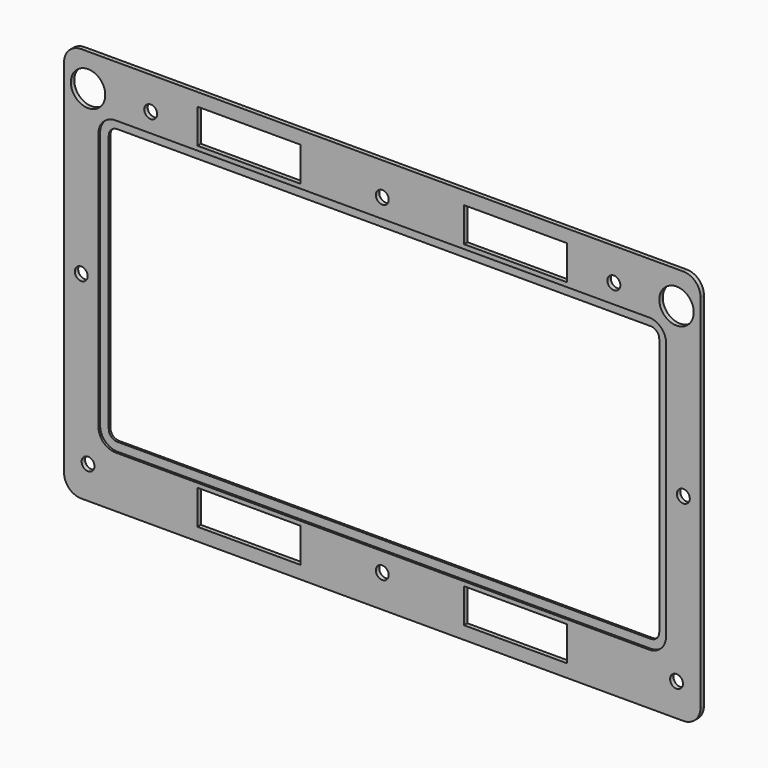
from build123d import *

# Parameters (mm, degrees)
F0_R     = 2.38125
F0_W     = 38.1
F0_H     = 12.7
F0_R_2   = 2.3876
F0_R_3   = 6.35
F1_DEPTH = 0.79375
F2_DEPTH = 1.5875


with BuildPart() as f1:
    # F0 (on Front) → F1 (new body)
    with BuildSketch(Plane.XZ):
        with BuildLine():
            Line((111.125, 73.025), (-111.125, 73.025))
            ThreePointArc((-111.125, 73.025), (-115.615128, 71.165128), (-117.475, 66.675))
            Line((-117.475, 66.675), (-117.475, -66.675))
            ThreePointArc((-117.475, -66.675), (-115.615128, -71.165128), (-111.125, -73.025))
            Line((-111.125, -73.025), (111.125, -73.025))
            ThreePointArc((111.125, -73.025), (115.615128, -71.165128), (117.475, -66.675))
            Line((117.475, -66.675), (117.475, 66.675))
            ThreePointArc((117.475, 66.675), (115.615128, 71.165128), (111.125, 73.025))
        make_face()
        with Locations((-108.607564, -60.982564)):
            Circle(F0_R, mode=Mode.SUBTRACT)
        with Locations((-49.2125, -61.9125)):
            Rectangle(F0_W, F0_H, mode=Mode.SUBTRACT)
        with Locations((0, -60.982564)):
            Circle(F0_R_2, mode=Mode.SUBTRACT)
        with Locations((49.2125, -61.9125)):
            Rectangle(F0_W, F0_H, mode=Mode.SUBTRACT)
        with Locations((108.607564, -60.982564)):
            Circle(F0_R, mode=Mode.SUBTRACT)
        with Locations((-111.125, 0)):
            Circle(F0_R, mode=Mode.SUBTRACT)
        with Locations((-108.607564, 60.982564)):
            Circle(F0_R_3, mode=Mode.SUBTRACT)
        with Locations((-85.477502, 60.982564)):
            Circle(F0_R_2, mode=Mode.SUBTRACT)
        with Locations((-49.2125, 61.9125)):
            Rectangle(F0_W, F0_H, mode=Mode.SUBTRACT)
        with BuildLine():
            ThreePointArc((-104.775, 47.625), (-102.915128, 52.115128), (-98.425, 53.975))
            Line((-98.425, 53.975), (98.425, 53.975))
            ThreePointArc((98.425, 53.975), (102.915128, 52.115128), (104.775, 47.625))
            Line((104.775, 47.625), (104.775, -47.625))
            ThreePointArc((104.775, -47.625), (102.915128, -52.115128), (98.425, -53.975))
            Line((98.425, -53.975), (-98.425, -53.975))
            ThreePointArc((-98.425, -53.975), (-102.915128, -52.115128), (-104.775, -47.625))
            Line((-104.775, -47.625), (-104.775, 47.625))
        make_face(mode=Mode.SUBTRACT)
        with Locations((111.125, 0)):
            Circle(F0_R, mode=Mode.SUBTRACT)
        with Locations((0.003981, 60.982564)):
            Circle(F0_R, mode=Mode.SUBTRACT)
        with Locations((49.2125, 61.9125)):
            Rectangle(F0_W, F0_H, mode=Mode.SUBTRACT)
        with Locations((85.477502, 60.982564)):
            Circle(F0_R_2, mode=Mode.SUBTRACT)
        with Locations((108.607564, 60.982564)):
            Circle(F0_R_3, mode=Mode.SUBTRACT)
        with BuildLine():
            Line((98.425, 53.975), (-98.425, 53.975))
            ThreePointArc((-98.425, 53.975), (-102.915128, 52.115128), (-104.775, 47.625))
            Line((-104.775, 47.625), (-104.775, -47.625))
            ThreePointArc((-104.775, -47.625), (-102.915128, -52.115128), (-98.425, -53.975))
            Line((-98.425, -53.975), (98.425, -53.975))
            ThreePointArc((98.425, -53.975), (102.915128, -52.115128), (104.775, -47.625))
            Line((104.775, -47.625), (104.775, 47.625))
            ThreePointArc((104.775, 47.625), (102.915128, 52.115128), (98.425, 53.975))
        make_face()
        with BuildLine():
            ThreePointArc((-101.6, 47.625), (-100.670064, 49.870064), (-98.425, 50.8))
            Line((-98.425, 50.8), (98.425, 50.8))
            ThreePointArc((98.425, 50.8), (100.670064, 49.870064), (101.6, 47.625))
            Line((101.6, 47.625), (101.6, -47.625))
            ThreePointArc((101.6, -47.625), (100.670064, -49.870064), (98.425, -50.8))
            Line((98.425, -50.8), (-98.425, -50.8))
            ThreePointArc((-98.425, -50.8), (-100.670064, -49.870064), (-101.6, -47.625))
            Line((-101.6, -47.625), (-101.6, 47.625))
        make_face(mode=Mode.SUBTRACT)
    extrude(amount=F1_DEPTH)

    # F0 (on Front) → F2 (join)
    with BuildSketch(Plane.XZ):
        with BuildLine():
            Line((111.125, 73.025), (-111.125, 73.025))
            ThreePointArc((-111.125, 73.025), (-115.615128, 71.165128), (-117.475, 66.675))
            Line((-117.475, 66.675), (-117.475, -66.675))
            ThreePointArc((-117.475, -66.675), (-115.615128, -71.165128), (-111.125, -73.025))
            Line((-111.125, -73.025), (111.125, -73.025))
            ThreePointArc((111.125, -73.025), (115.615128, -71.165128), (117.475, -66.675))
            Line((117.475, -66.675), (117.475, 66.675))
            ThreePointArc((117.475, 66.675), (115.615128, 71.165128), (111.125, 73.025))
        make_face()
        with Locations((-108.607564, -60.982564)):
            Circle(F0_R, mode=Mode.SUBTRACT)
        with Locations((-49.2125, -61.9125)):
            Rectangle(F0_W, F0_H, mode=Mode.SUBTRACT)
        with Locations((0, -60.982564)):
            Circle(F0_R_2, mode=Mode.SUBTRACT)
        with Locations((49.2125, -61.9125)):
            Rectangle(F0_W, F0_H, mode=Mode.SUBTRACT)
        with Locations((108.607564, -60.982564)):
            Circle(F0_R, mode=Mode.SUBTRACT)
        with Locations((-111.125, 0)):
            Circle(F0_R, mode=Mode.SUBTRACT)
        with Locations((-108.607564, 60.982564)):
            Circle(F0_R_3, mode=Mode.SUBTRACT)
        with Locations((-85.477502, 60.982564)):
            Circle(F0_R_2, mode=Mode.SUBTRACT)
        with Locations((-49.2125, 61.9125)):
            Rectangle(F0_W, F0_H, mode=Mode.SUBTRACT)
        with BuildLine():
            ThreePointArc((-104.775, 47.625), (-102.915128, 52.115128), (-98.425, 53.975))
            Line((-98.425, 53.975), (98.425, 53.975))
            ThreePointArc((98.425, 53.975), (102.915128, 52.115128), (104.775, 47.625))
            Line((104.775, 47.625), (104.775, -47.625))
            ThreePointArc((104.775, -47.625), (102.915128, -52.115128), (98.425, -53.975))
            Line((98.425, -53.975), (-98.425, -53.975))
            ThreePointArc((-98.425, -53.975), (-102.915128, -52.115128), (-104.775, -47.625))
            Line((-104.775, -47.625), (-104.775, 47.625))
        make_face(mode=Mode.SUBTRACT)
        with Locations((111.125, 0)):
            Circle(F0_R, mode=Mode.SUBTRACT)
        with Locations((0.003981, 60.982564)):
            Circle(F0_R, mode=Mode.SUBTRACT)
        with Locations((49.2125, 61.9125)):
            Rectangle(F0_W, F0_H, mode=Mode.SUBTRACT)
        with Locations((85.477502, 60.982564)):
            Circle(F0_R_2, mode=Mode.SUBTRACT)
        with Locations((108.607564, 60.982564)):
            Circle(F0_R_3, mode=Mode.SUBTRACT)
    extrude(amount=F2_DEPTH)


solid = f1.part
